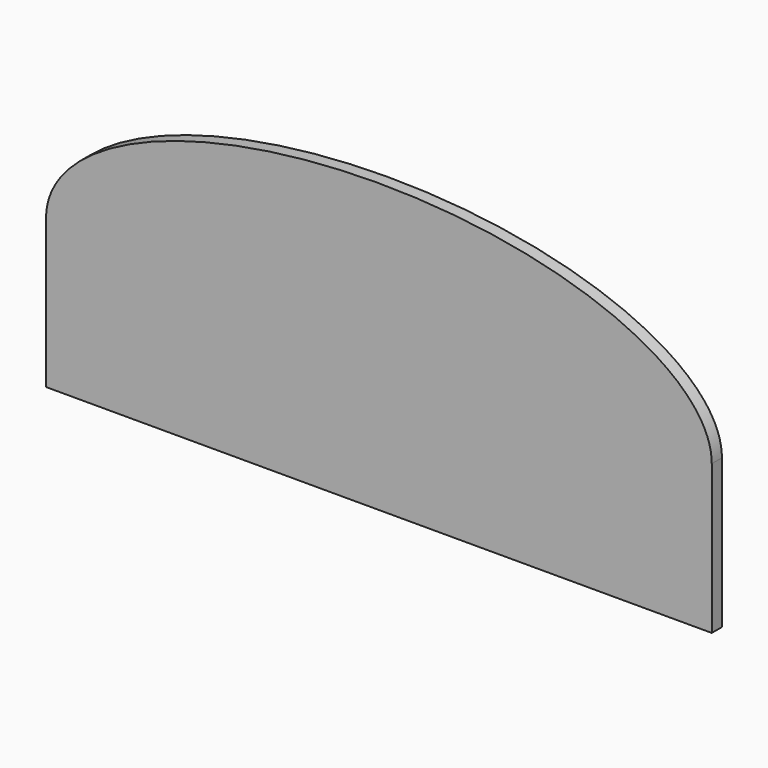
from build123d import *

# Parameters (mm, degrees)
F1_DEPTH = 5.08


with BuildPart() as f1:
    # F0 (on Front) → F1 (new body)
    with BuildSketch(Plane.XZ):
        with BuildLine():
            Line((-133.1190886, 0), (133.1190886, 0))
            add(Edge.make_bspline(
                [(133.1190886, 0), (133.1190886, 55.4577865922), (0, 55.4577865922), (-133.1190886, 55.4577865922), (-133.1190886, 0)],
                knots=[0, 0, 0, 1.5707963268, 1.5707963268, 3.1415926536, 3.1415926536, 3.1415926536], degree=2, weights=[1, 0.7071067812, 1, 0.7071067812, 1]))
        make_face()
        with BuildLine():
            Line((133.1190886, -59.6055615281), (133.1190886, 0))
            add(Edge.make_bspline(
                [(-133.1190886, 0), (-133.1190886, -55.4577865922), (0, -55.4577865922), (133.1190886, -55.4577865922), (133.1190886, 0)],
                knots=[3.1415926536, 3.1415926536, 3.1415926536, 4.7123889804, 4.7123889804, 6.2831853072, 6.2831853072, 6.2831853072], degree=2, weights=[1, 0.7071067812, 1, 0.7071067812, 1]))
            Line((-133.1190886, 0), (-133.1190886, -59.6055615281))
            Line((-133.1190886, -59.6055615281), (133.1190886, -59.6055615281))
        make_face()
        with BuildLine():
            add(Edge.make_bspline(
                [(-133.1190886, 0), (-133.1190886, -55.4577865922), (0, -55.4577865922), (133.1190886, -55.4577865922), (133.1190886, 0)],
                knots=[3.1415926536, 3.1415926536, 3.1415926536, 4.7123889804, 4.7123889804, 6.2831853072, 6.2831853072, 6.2831853072], degree=2, weights=[1, 0.7071067812, 1, 0.7071067812, 1]))
            Line((133.1190886, 0), (-133.1190886, 0))
        make_face()
    extrude(amount=F1_DEPTH)


solid = f1.part
